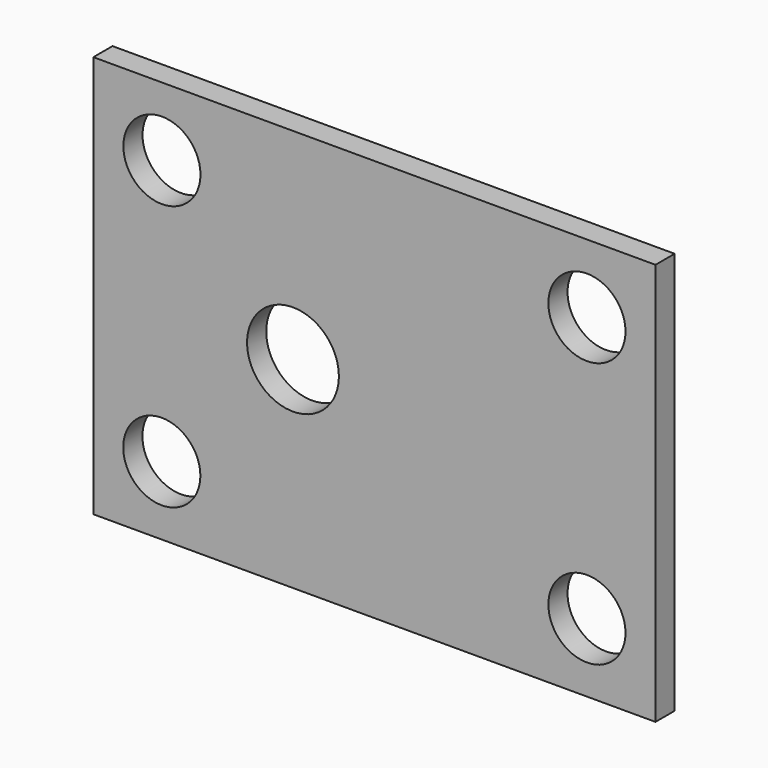
from build123d import *

# Parameters (mm, degrees)
F0_W     = 894.08
F0_H     = 640.08
F0_R     = 61.341
F0_R_2   = 73.025
F1_DEPTH = 38.1


with BuildPart() as f1:
    # F0 (on Front) → F1 (new body)
    with BuildSketch(Plane.XZ):
        Rectangle(F0_W, F0_H)
        with Locations((-338.185633, -210.813498)):
            Circle(F0_R, mode=Mode.SUBTRACT)
        with Locations((338.000492, -211.000518)):
            Circle(F0_R, mode=Mode.SUBTRACT)
        with Locations((-129.54, 0)):
            Circle(F0_R_2, mode=Mode.SUBTRACT)
        with Locations((-338.000518, 211.000492)):
            Circle(F0_R, mode=Mode.SUBTRACT)
        with Locations((338.000492, 211.000492)):
            Circle(F0_R, mode=Mode.SUBTRACT)
    extrude(amount=F1_DEPTH)


solid = f1.part
